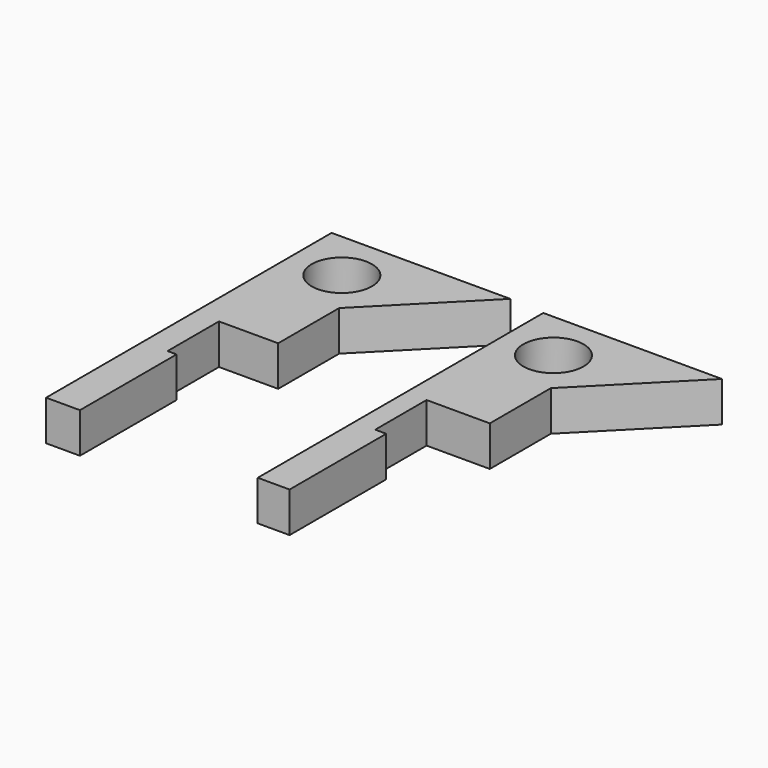
from build123d import *

# Parameters (mm, degrees)
F0_R     = 15
F1_DEPTH = 20
F2_R     = 15
F3_DEPTH = 20


with BuildPart() as f1:
    # F0 (on Top) → F1 (new body)
    with BuildSketch(Plane.XY):
        Polygon((42.072104, 106.64424), (-46.927896, 106.64424), (-46.927896, -71.15576), (-30.059037, -71.15576), (-30.059037, -48.975667), (-30.059037, -10.975667), (-34.559037, -10.975667), (-34.559037, 21.024333), (-5.059037, 21.024333), (-5.059037, 59.024333), align=None)
        with Locations((-21.527896, 81.24424)):
            Circle(F0_R, mode=Mode.SUBTRACT)
    extrude(amount=F1_DEPTH)


with BuildPart() as f3:
    # F2 (on Top) → F3 (new body)
    with BuildSketch(Plane.XY):
        Polygon((148.517293, 105.387732), (59.517293, 105.387732), (59.517293, -72.412268), (75.386152, -72.412268), (75.386152, -50.232175), (75.386152, -12.232175), (69.886152, -12.232175), (69.886152, 19.767825), (101.386152, 19.767825), (101.386152, 57.767825), align=None)
        with Locations((84.917293, 79.987732)):
            Circle(F2_R, mode=Mode.SUBTRACT)
    extrude(amount=F3_DEPTH)


solid = Compound([f1.part, f3.part])
